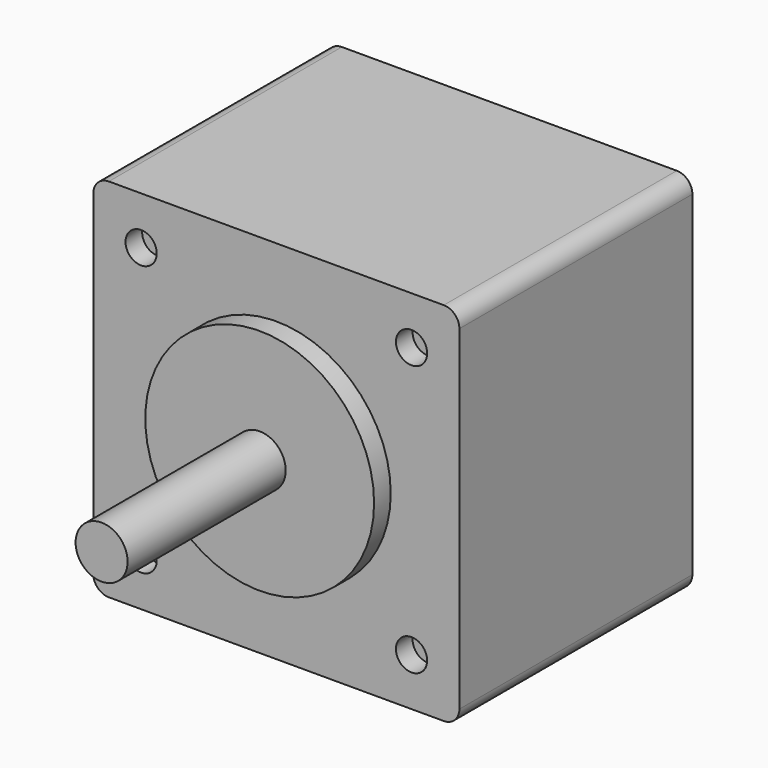
from build123d import *

# Parameters (mm, degrees)
F1_DEPTH = 28
F2_R     = 11
F2_R_2   = 2.5
F3_DEPTH = 2
F2_R_3   = 1.5
F4_DEPTH = 2
F5_DEPTH = 21


with BuildPart() as f1:
    # F0 (on Front) → F1 (new body)
    with BuildSketch(Plane.XZ):
        with BuildLine():
            Line((-16.1, -17.6), (16.1, -17.6))
            ThreePointArc((16.1, -17.6), (17.16066, -17.16066), (17.6, -16.1))
            Line((17.6, -16.1), (17.6, 16.1))
            ThreePointArc((17.6, 16.1), (17.16066, 17.16066), (16.1, 17.6))
            Line((16.1, 17.6), (-16.1, 17.6))
            ThreePointArc((-16.1, 17.6), (-17.16066, 17.16066), (-17.6, 16.1))
            Line((-17.6, 16.1), (-17.6, -16.1))
            ThreePointArc((-17.6, -16.1), (-17.16066, -17.16066), (-16.1, -17.6))
        make_face()
    extrude(amount=F1_DEPTH)

    # F2 (on face) → F3 (join)
    with BuildSketch(Plane.XZ.offset(28)):
        Circle(F2_R)
        Circle(F2_R_2, mode=Mode.SUBTRACT)
    extrude(amount=F3_DEPTH)

    # F2 (on face) → F4 (cut)
    with BuildSketch(Plane.XZ.offset(28)):
        with Locations((-13, 13)):
            Circle(F2_R_3)
        with Locations((13, 13)):
            Circle(F2_R_3)
        with Locations((13, -13)):
            Circle(F2_R_3)
        with Locations((-13, -13)):
            Circle(F2_R_3)
    extrude(amount=-F4_DEPTH, mode=Mode.SUBTRACT)

    # F2 (on face) → F5 (join)
    with BuildSketch(Plane.XZ.offset(28)):
        Circle(F2_R_2)
    extrude(amount=F5_DEPTH)


solid = f1.part
